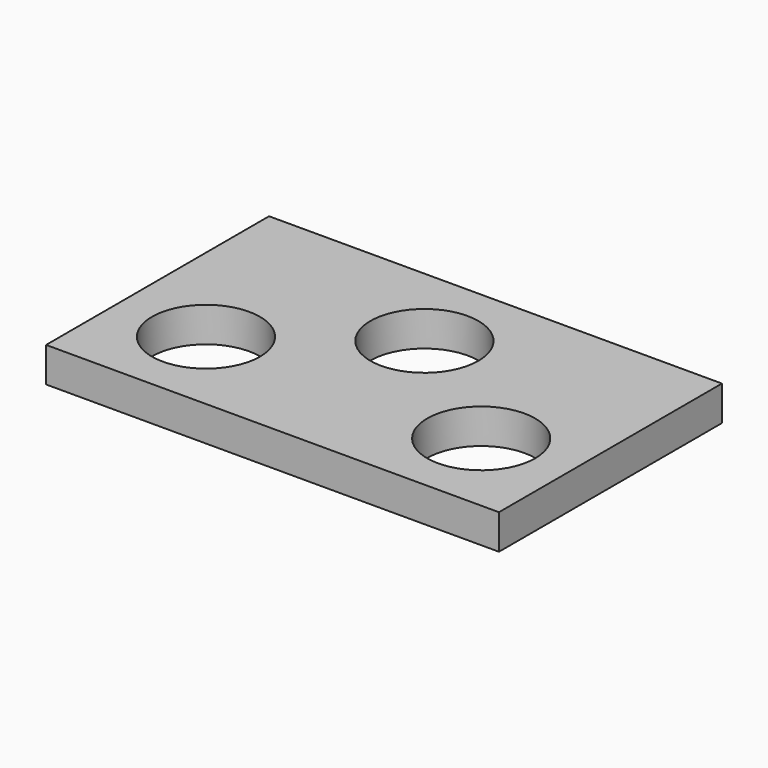
from build123d import *

# Parameters (mm, degrees)
F0_W     = 165.1
F0_H     = 101.6
F0_R     = 19.685
F1_DEPTH = 12.7


with BuildPart() as f1:
    # F0 (on Top) → F1 (new body)
    with BuildSketch(Plane.XY):
        Rectangle(F0_W, F0_H)
        with Locations((-50.165, -18.415)):
            Circle(F0_R, mode=Mode.SUBTRACT)
        with Locations((50.165, -18.415)):
            Circle(F0_R, mode=Mode.SUBTRACT)
        with Locations((0, 18.415)):
            Circle(F0_R, mode=Mode.SUBTRACT)
    extrude(amount=-F1_DEPTH)


solid = f1.part
